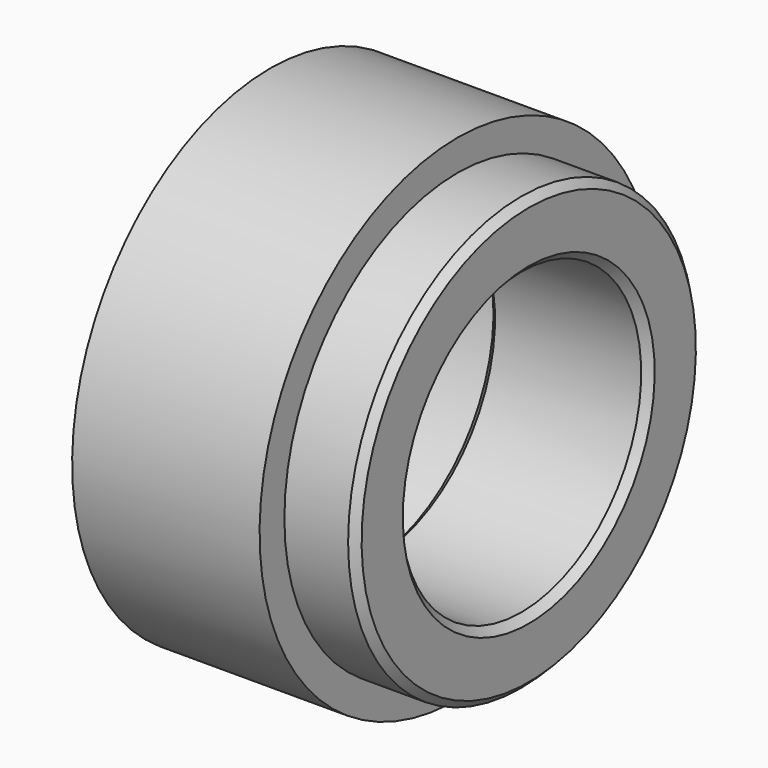
from build123d import *

# Parameters (mm, degrees)
F2_SIZE = 1


with BuildPart() as f1:
    # F0 (on Front) → F1 (revolve)
    with BuildSketch(Plane.XZ):
        Polygon((25, 33), (0, 33), (0, 28.55), (13, 28.55), (13, 20), (34.5, 20), (34.5, 28.863212), (25, 28.863212), align=None)
    revolve(axis=Axis((3.439768, 0, 0), (1, 0, 0)))

    # F2
    f2_edges = [f1.edges().sort_by_distance(p)[0] for p in [
        (0, 0, -28.55),
        (34.5, 0, -20),
        (34.5, 0, -28.863212),
        (13, 0, -20),
    ]]
    chamfer(f2_edges, length=F2_SIZE)


solid = f1.part
